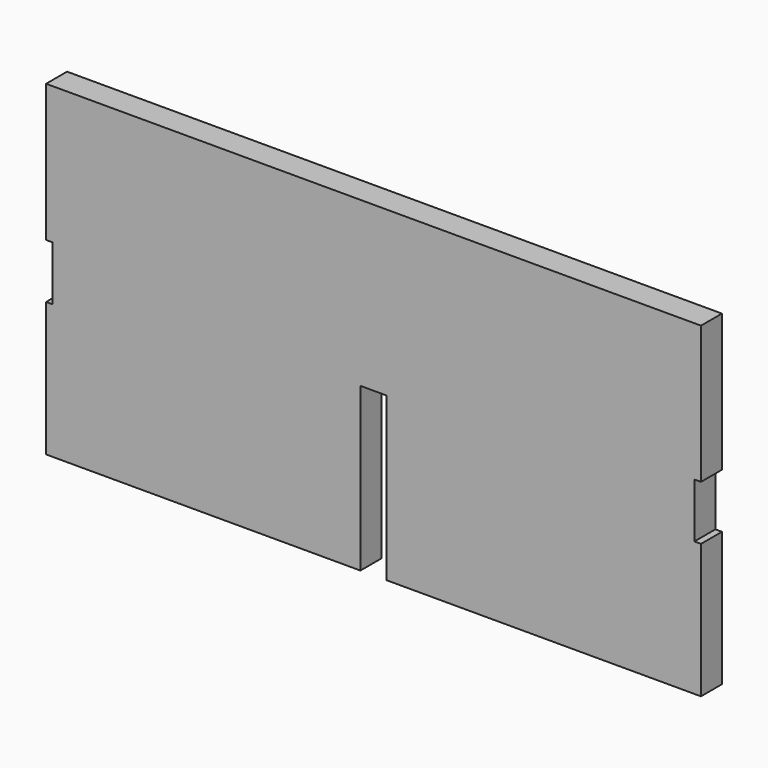
from build123d import *

# Parameters (mm, degrees)
F0_W     = 6
F0_H     = 50
F1_DEPTH = 24
F2_DEPTH = 96


with BuildPart() as f1:
    # F0 (on Front) → F1 (new body)
    with BuildSketch(Plane.XZ):
        Polygon((230.500006, 138), (-369.499994, 138), (-369.499994, 12), (-363.499994, 12), (-363.499994, -38), (-369.499994, -38), (-369.499994, -161), (-81.499994, -161), (-81.499994, -12), (-57.499994, -12), (-57.499994, -161), (230.500006, -161), (230.500006, -38), (224.500006, -38), (224.500006, 12), (230.500006, 12), align=None)
        with Locations((-366.499994, -13)):
            Rectangle(F0_W, F0_H)
        with Locations((227.500006, -13)):
            Rectangle(F0_W, F0_H)
    extrude(amount=F1_DEPTH)

    # F0 (on Front) → F2 (cut)
    with BuildSketch(Plane.XZ):
        with Locations((-366.499994, -13)):
            Rectangle(F0_W, F0_H)
        with Locations((227.500006, -13)):
            Rectangle(F0_W, F0_H)
    extrude(amount=F2_DEPTH, mode=Mode.SUBTRACT)


solid = f1.part
